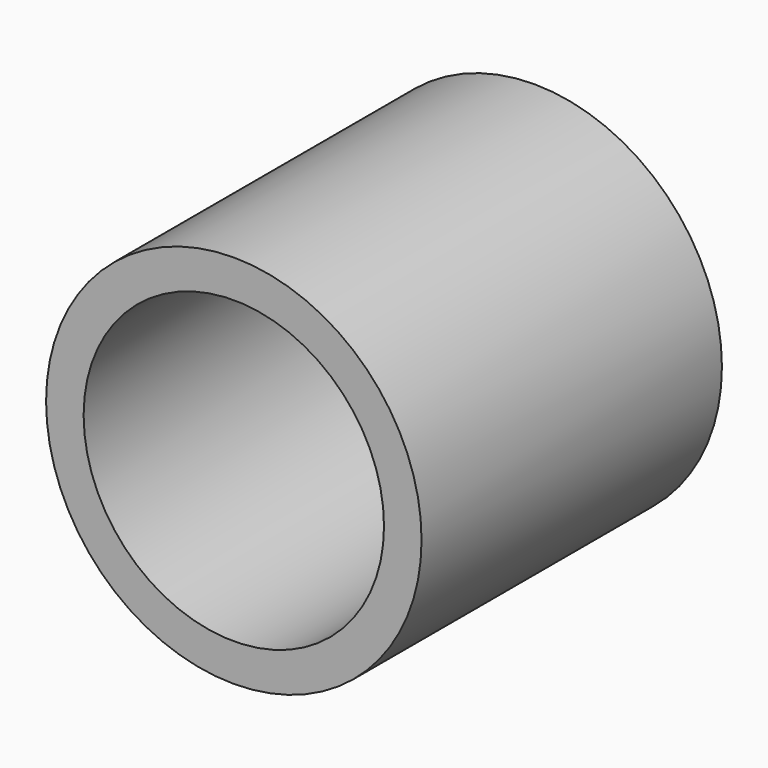
from build123d import *

# Parameters (mm, degrees)
F0_R     = 63.5
F0_R_2   = 50.8
F1_DEPTH = 127
F2_DEPTH = 114.3


with BuildPart() as f1:
    # F0 (on Front) → F1 (new body)
    with BuildSketch(Plane.XZ):
        Circle(F0_R)
        Circle(F0_R_2, mode=Mode.SUBTRACT)
        Circle(F0_R_2)
    extrude(amount=-F1_DEPTH)

    # F0 (on Front) → F2 (cut)
    with BuildSketch(Plane.XZ):
        Circle(F0_R_2)
    extrude(amount=-F2_DEPTH, mode=Mode.SUBTRACT)


solid = f1.part
